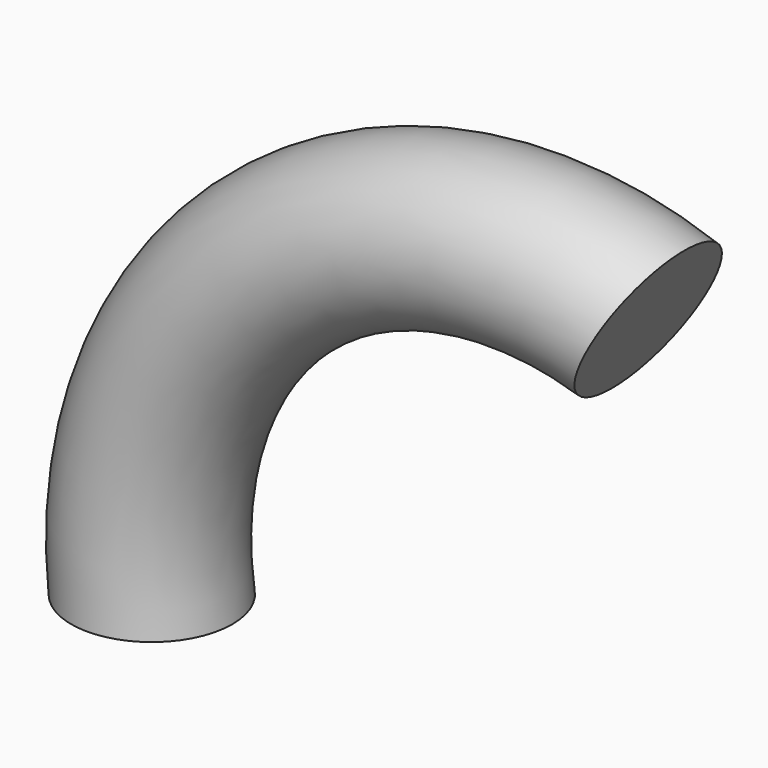
from build123d import *

# Parameters (mm, degrees)
F0_R = 5.698743


with BuildPart() as f2:
    # F2: sweep along a path in F1
    with BuildLine(Plane.XZ) as f2_path:
        ThreePointArc((35.107054, 28.546641), (9.602845, 24.051179), (0, 0))
    # F0 (on Top) → F2 (sweep)
    with BuildSketch(Plane.XY):
        Circle(F0_R)
    sweep(path=f2_path.line)


solid = f2.part
